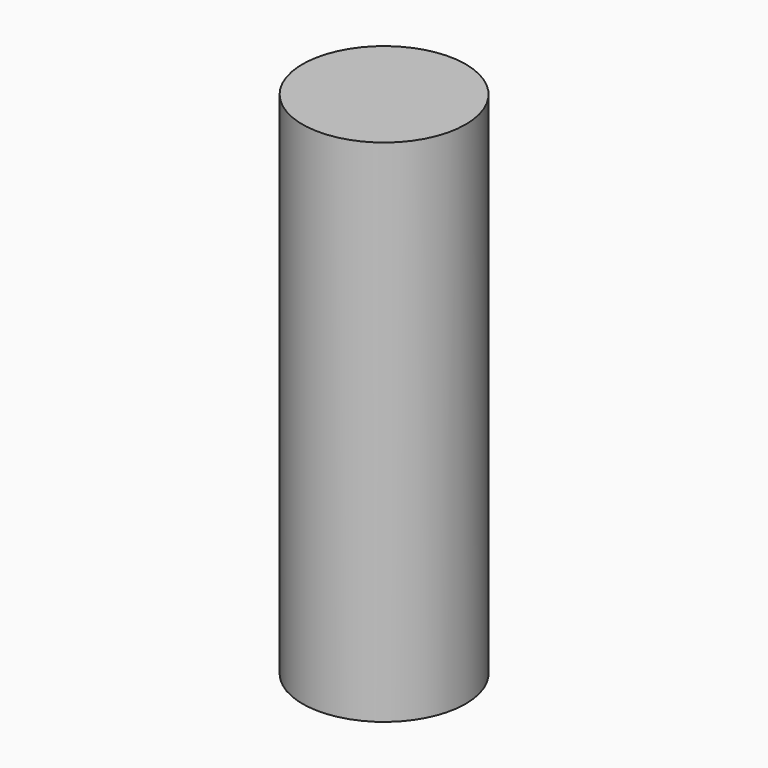
from build123d import *

# Parameters (mm, degrees)
SKETCH_R  = 16
PAD_DEPTH = 100


with BuildPart() as part:
    # Sketch → Pad (new body)
    with BuildSketch(Plane.XY):
        with Locations((-270.884705, -152.03154)):
            Circle(SKETCH_R)
    extrude(amount=PAD_DEPTH)


solid = part.part
